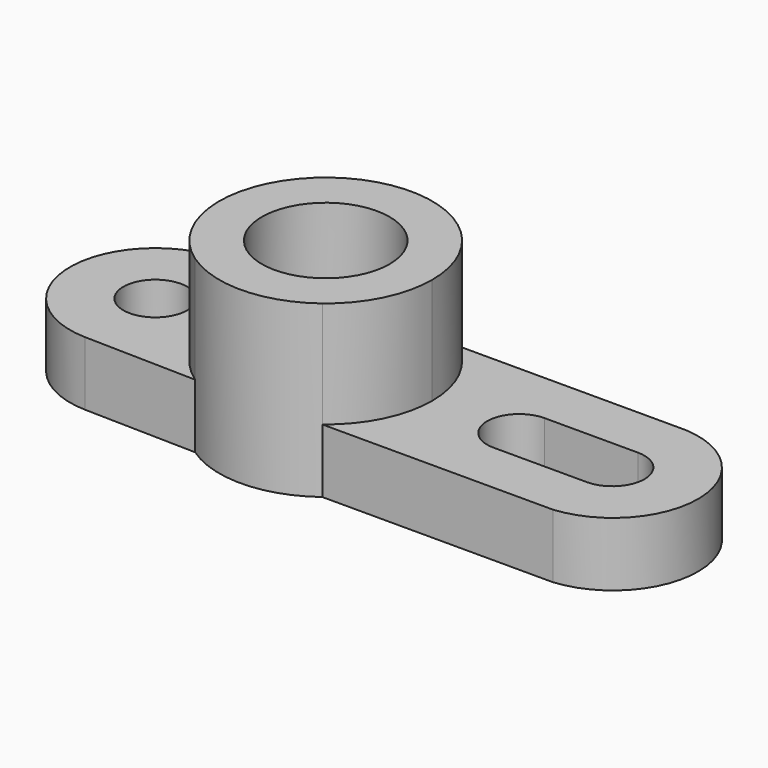
from build123d import *

# Parameters (mm, degrees)
F0_R     = 19.05
F1_DEPTH = 50.8
F0_R_2   = 9.525
F2_DEPTH = 19.05
F0_R_3   = 12.7
F3_DEPTH = 25.4


with BuildPart() as f1:
    # F0 (on Top) → F1 (new body)
    with BuildSketch(Plane.XY):
        with BuildLine():
            ThreePointArc((19.199675, -25.287052), (28.439868, -14.115113), (31.75, 0))
            ThreePointArc((31.75, 0), (28.415813, 14.163477), (19.113523, 25.352234))
            ThreePointArc((19.113523, 25.352234), (0.018633, 31.749995), (-19.083752, 25.374651))
            ThreePointArc((-19.083752, 25.374651), (-31.742751, -0.678404), (-17.982212, -26.166822))
            ThreePointArc((-17.982212, -26.166822), (0.751034, -31.741116), (19.199675, -25.287052))
        make_face()
        Circle(F0_R, mode=Mode.SUBTRACT)
    extrude(amount=F1_DEPTH)

    # F0 (on Top) → F2 (join)
    with BuildSketch(Plane.XY):
        with BuildLine():
            ThreePointArc((-17.982212, -26.166822), (-31.742751, -0.678404), (-19.083752, 25.374651))
            Line((-19.083752, 25.374651), (-49.129671, 25.374651))
            Line((-49.129671, 25.374651), (-52.470329, 25.374651))
            ThreePointArc((-52.470329, 25.374651), (-76.223563, -0.552574), (-51.36625, -25.423262))
            Line((-51.36625, -25.423262), (-17.982212, -26.166822))
        make_face()
        with Locations((-50.8, 0)):
            Circle(F0_R_2, mode=Mode.SUBTRACT)
        with BuildLine():
            ThreePointArc((19.113523, 25.352234), (28.415813, 14.163477), (31.75, 0))
            ThreePointArc((31.75, 0), (28.439868, -14.115113), (19.199675, -25.287052))
            Line((19.199675, -25.287052), (83.205302, -25.287052))
            Line((83.205302, -25.287052), (87.990698, -25.287052))
            ThreePointArc((87.990698, -25.287052), (110.994542, 0.419117), (87.155001, 25.352234))
            Line((87.155001, 25.352234), (84.040999, 25.352234))
            Line((84.040999, 25.352234), (19.113523, 25.352234))
        make_face()
        with BuildLine():
            ThreePointArc((85.471, 9.525), (94.996, -0.000908), (85.469184, -9.525))
            Line((85.469184, -9.525), (57.973988, -9.519757))
            ThreePointArc((57.973988, -9.519757), (48.134291, -0.156846), (57.660339, 9.525))
            Line((57.660339, 9.525), (85.471, 9.525))
        make_face(mode=Mode.SUBTRACT)
    extrude(amount=F2_DEPTH)

    # F0 (on Top) → F3 (join)
    with BuildSketch(Plane.XY):
        Circle(F0_R)
        Circle(F0_R_3, mode=Mode.SUBTRACT)
    extrude(amount=F3_DEPTH)


solid = f1.part
